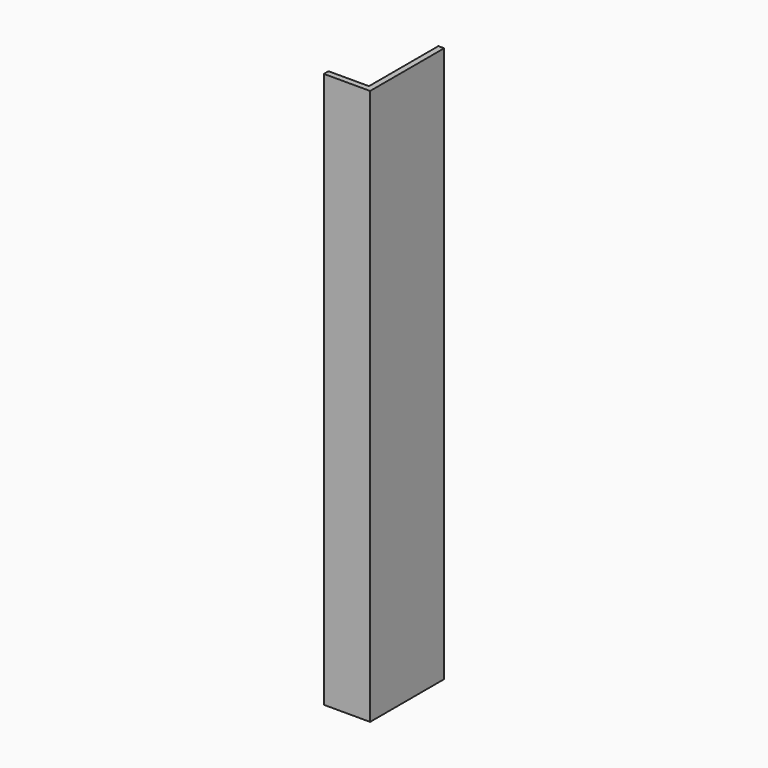
from build123d import *

# Parameters (mm, degrees)
F1_DEPTH      = 152.4
F1_DEPTH_BACK = 152.4


with BuildPart() as f1:
    # F0 (on Top) → F1 (new body, two sides)
    with BuildSketch(Plane.XY) as f1_sk:
        Polygon((0, 50.8), (-3.175, 50.8), (-3.175, 3.175), (-25.4, 3.175), (-25.4, 0), (0, 0), align=None)
    extrude(amount=F1_DEPTH)
    extrude(f1_sk.sketch, amount=-F1_DEPTH_BACK)


solid = f1.part
